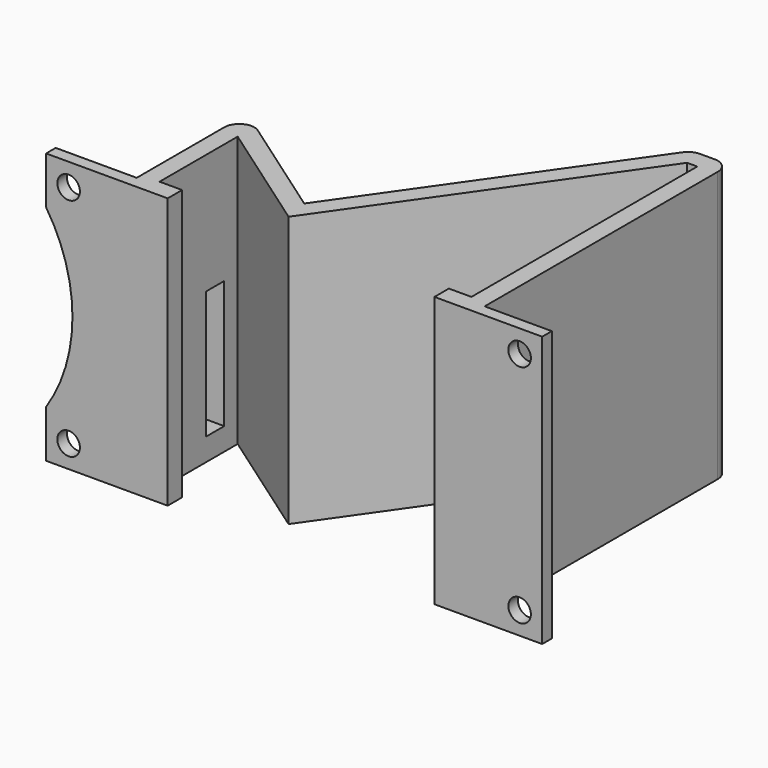
from build123d import *

# Parameters (mm, degrees)
F1_DEPTH = 36
F2_R     = 1.5
F3_DEPTH = 1.6
F4_W     = 3
F4_H     = 17
F5_DEPTH = 3
F6_W     = 1.9588658989
F6_H     = 17
F7_DEPTH = 4
F7_TAPER = 6.2


with BuildPart() as f1:
    # F0 (on Top) → F1 (new body)
    with BuildSketch(Plane.XY):
        with BuildLine():
            Line((0, 16.1580357461), (0, 0))
            Line((0, 0), (5.4, 0))
            Line((5.4, 0), (5.4, 2.4))
            Line((5.4, 2.4), (2.4, 2.4))
            Line((2.4, 2.4), (2.4, 15.3896428953))
            Line((2.4, 15.3896428953), (17.7915743891, 4.6123464831))
            Line((17.7915743891, 4.6123464831), (42.5417641781, 39.9592806968))
            Line((42.5417641781, 39.9592806968), (43.8924032568, 39.9592806968))
            Line((43.8924032568, 39.9592806968), (43.8924032568, 2.4))
            Line((43.8924032568, 2.4), (40.8924032568, 2.4))
            Line((40.8924032568, 2.4), (40.8924032568, 0))
            Line((40.8924032568, 0), (46.2924032568, 0))
            Line((46.2924032568, 0), (46.2924032568, 40.3592806968))
            ThreePointArc((46.2924032568, 40.3592806968), (45.7066168192, 41.7734942591), (44.2924032568, 42.3592806968))
            Line((44.2924032568, 42.3592806968), (42.3335373579, 42.3592806968))
            ThreePointArc((42.3335373579, 42.3592806968), (41.4100401314, 42.1333023631), (40.6952332693, 41.5064335695))
            Line((40.6952332693, 41.5064335695), (17.2021929301, 7.9548948366))
            Line((17.2021929301, 7.9548948366), (3.1471528727, 17.7963398346))
            ThreePointArc((3.1471528727, 17.7963398346), (1.0765027735, 17.9320574124), (0, 16.1580357461))
        make_face()
    extrude(amount=F1_DEPTH)

    # F2 (on face) → F3 (join)
    with BuildSketch(Plane.XZ):
        with BuildLine():
            Line((-7.7767788619, 0), (0, 0))
            Line((0, 0), (0, 36))
            Line((0, 36), (-10.7767788619, 36))
            Line((-10.7767788619, 36), (-10.7767788619, 29.6889703104))
            ThreePointArc((-10.7767788619, 29.6889703104), (-8.1641973062, 24.1021049808), (-7.2681161721, 18))
            ThreePointArc((-7.2681161721, 18), (-8.1641973062, 11.8978950192), (-10.7767788619, 6.3110296896))
            Line((-10.7767788619, 6.3110296896), (-10.7767788619, 3))
            Line((-10.7767788619, 3), (-10.7767788619, 0))
            Line((-10.7767788619, 0), (-7.7767788619, 0))
        make_face()
        with Locations((-7.7767788619, 3)):
            Circle(F2_R, mode=Mode.SUBTRACT)
        with Locations((-7.7767788619, 33)):
            Circle(F2_R, mode=Mode.SUBTRACT)
        Polygon((42.1804301441, 36), (42.1804301441, 0), (46.2169349194, 0), (55.2232211381, 0), (55.2232211381, 36), align=None)
        with Locations((52.2232211381, 3)):
            Circle(F2_R, mode=Mode.SUBTRACT)
        with Locations((52.2232211381, 33)):
            Circle(F2_R, mode=Mode.SUBTRACT)
    extrude(amount=-F3_DEPTH)

    # F4 (on face) → F5 (cut)
    with BuildSketch(Plane(origin=(0, 0, 0), x_dir=(0, -1, 0), z_dir=(-1, 0, 0))):
        with Locations((-11.6580357461, 11.5)):
            Rectangle(F4_W, F4_H)
    extrude(amount=-F5_DEPTH, mode=Mode.SUBTRACT)

    # F6 (on face) → F7 (cut)
    with BuildSketch(Plane(origin=(0, 42.3592806968, 0), x_dir=(-1, 0, 0), z_dir=(0, 1, 0))):
        with Locations((-43.3129703074, 11.5)):
            Rectangle(F6_W, F6_H)
    extrude(amount=-F7_DEPTH, taper=F7_TAPER, mode=Mode.SUBTRACT)


solid = f1.part
